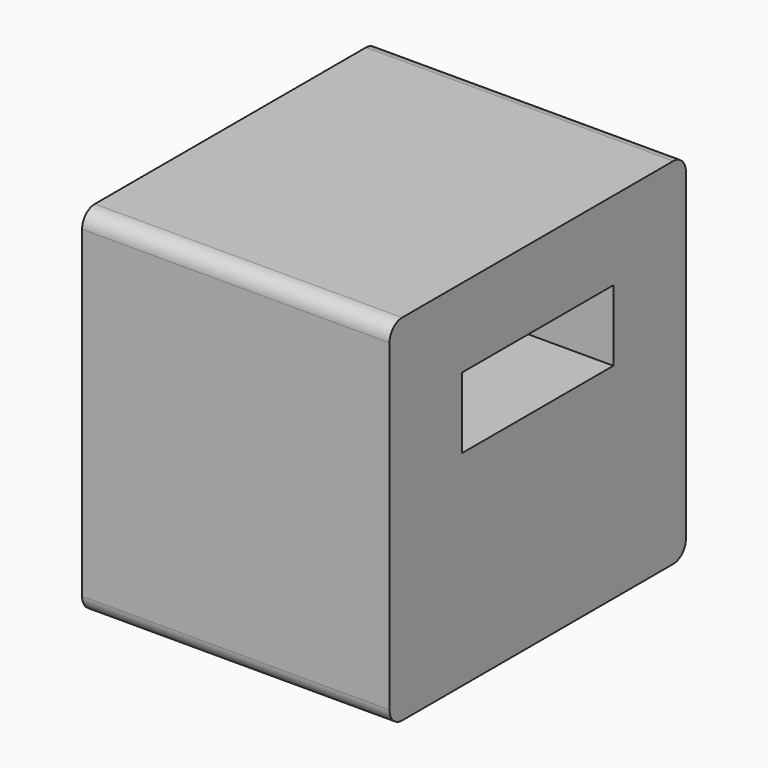
from build123d import *

# Parameters (mm, degrees)
BOX001_W     = 5
BOX001_H     = 2.4
BOX001_DEPTH = 0.9
BOX_W        = 3.9
BOX_H        = 4.7
BOX_DEPTH    = 4.5
FILLET_R     = 0.2


with BuildPart() as obj1:
    # Box001 → Box001 (new body)
    with BuildSketch(Plane(origin=(-0.6, 1.15, 2.6), x_dir=(1, 0, 0), z_dir=(0, 0, 1))):
        with Locations((2.5, 1.2)):
            Rectangle(BOX001_W, BOX001_H)
    extrude(amount=BOX001_DEPTH)


with BuildPart() as fillet_body:
    # Box → Box (new body)
    with BuildSketch(Plane.XY):
        with Locations((1.95, 2.35)):
            Rectangle(BOX_W, BOX_H)
    extrude(amount=BOX_DEPTH)

    # Cut: cut obj1
    add(obj1.part, mode=Mode.SUBTRACT)

    # Fillet
    fillet_edges = [fillet_body.edges().sort_by_distance(p)[0] for p in [
        (1.95, 0, 0),
        (1.95, 0, 4.5),
        (1.95, 4.7, 4.5),
        (1.95, 4.7, 0),
    ]]
    fillet(fillet_edges, radius=FILLET_R)


with BuildPart() as fillet_body_1:
    # Fillet placement: moved
    add(fillet_body.part.moved(Location((0, -2.35, -2.5))))


solid = fillet_body_1.part
